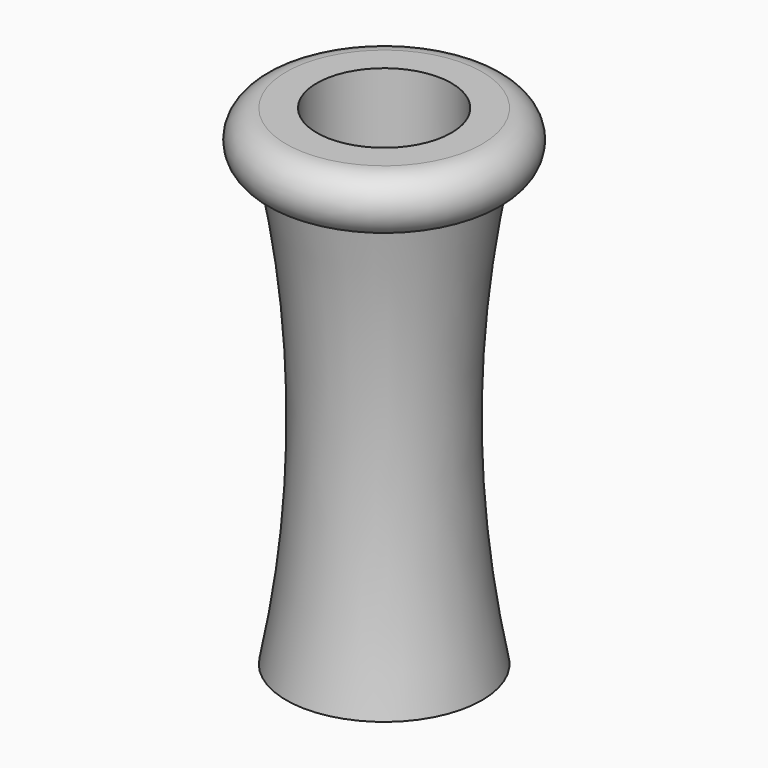
from build123d import *

# Parameters (mm, degrees)
F2_R     = 2.75
F3_DEPTH = 12.5


with BuildPart() as f1:
    # F0 (on Front) → F1 (revolve)
    with BuildSketch(Plane.XZ):
        with BuildLine():
            Line((0, 20), (0, 0))
            Line((0, 0), (4, 0))
            ThreePointArc((4, 0), (3.117121, 8.865139), (4, 17.730279))
            ThreePointArc((4, 17.730279), (5.134861, 18.865139), (4, 20))
            Line((4, 20), (0, 20))
        make_face()
    revolve(axis=Axis((0, 0, 10), (0, 0, 1)))

    # F2 (on face) → F3 (cut)
    with BuildSketch(Plane.XY.offset(20)):
        Circle(F2_R)
    extrude(amount=-F3_DEPTH, mode=Mode.SUBTRACT)


solid = f1.part
